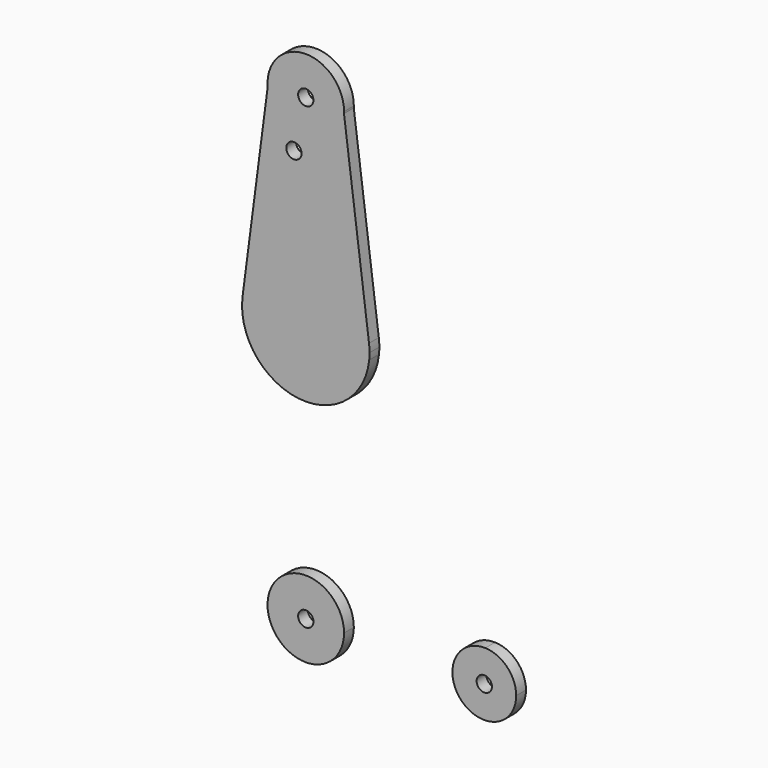
from build123d import *

# Parameters (mm, degrees)
F0_R     = 1.905
F1_DEPTH = 3.048


with BuildPart() as f1:
    # F0 (on Front) → F1 (new body)
    with BuildSketch(Plane.XZ):
        with BuildLine():
            ThreePointArc((9.513888, 50.340043), (9.522222, 50.569955), (9.525, 50.8))
            ThreePointArc((9.525, 50.8), (-0.40189, 60.316518), (-9.491086, 49.996936))
            ThreePointArc((-9.491086, 49.996936), (0.171932, 41.276552), (9.513888, 50.340043))
        make_face()
        with Locations((0, 50.8)):
            Circle(F0_R, mode=Mode.SUBTRACT)
        with BuildLine():
            ThreePointArc((52.387026, -63.294634), (50.148501, -57.769638), (44.695538, -55.360948))
            ThreePointArc((44.695538, -55.360948), (38.750551, -68.819631), (52.387026, -63.294634))
        make_face()
        with Locations((44.449526, -63.294634)):
            Circle(F0_R, mode=Mode.SUBTRACT)
        with BuildLine():
            ThreePointArc((9.525, -63.5), (-0.48082, -53.987144), (-9.476457, -64.460413))
            ThreePointArc((-9.476457, -64.460413), (-6.386614, -70.566596), (0, -73.025))
            Line((0, -73.025), (0.764398, -72.994278))
            ThreePointArc((0.764398, -72.994278), (7.000233, -69.959285), (9.525, -63.5))
        make_face()
        with Locations((0, -63.5)):
            Circle(F0_R, mode=Mode.SUBTRACT)
        with BuildLine():
            ThreePointArc((9.513888, 50.340043), (0.171932, 41.276552), (-9.491086, 49.996936))
            Line((-9.491086, 49.996936), (-15.741781, 2.052306))
            ThreePointArc((-15.741781, 2.052306), (0.010915, 15.874996), (15.744588, 2.030657))
            Line((15.744588, 2.030657), (9.513888, 50.340043))
        make_face()
        with Locations((-2.949678, 38.161453)):
            Circle(F0_R, mode=Mode.SUBTRACT)
        with BuildLine():
            ThreePointArc((15.744588, 2.030657), (0.010915, 15.874996), (-15.741781, 2.052306))
            ThreePointArc((-15.741781, 2.052306), (-1.842076, -15.767764), (15.79094, -1.631518))
            ThreePointArc((15.79094, -1.631518), (15.853971, -0.816841), (15.875, 0))
            ThreePointArc((15.875, 0), (15.842363, 1.01742), (15.744588, 2.030657))
        make_face()
        with BuildLine():
            Line((0.764398, -72.994278), (0, -73.025))
            ThreePointArc((0, -73.025), (0.382508, -73.017316), (0.764398, -72.994278))
        make_face()
    extrude(amount=F1_DEPTH)


solid = f1.part
